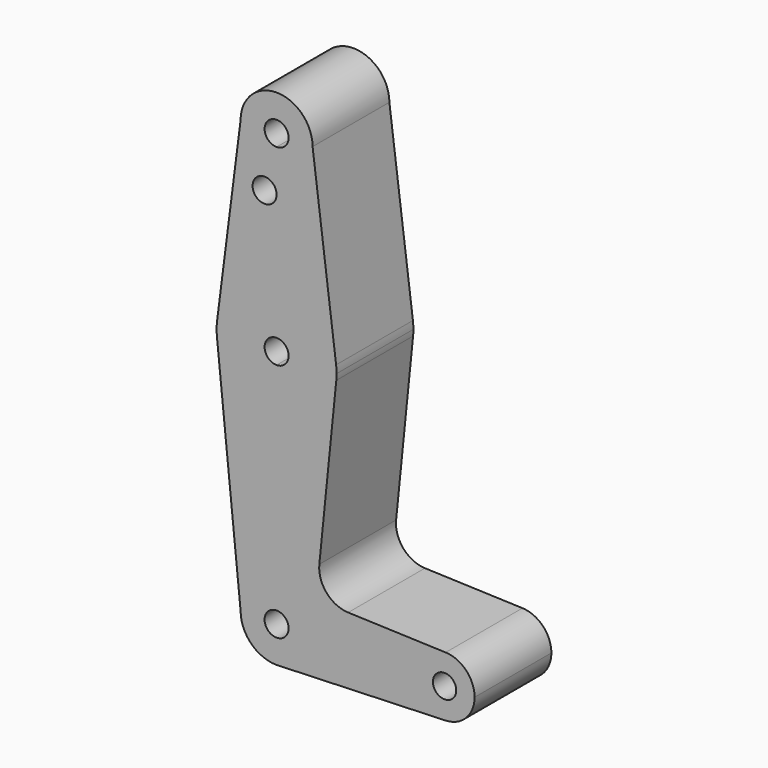
from build123d import *

# Parameters (mm, degrees)
F0_R     = 3.175
F1_DEPTH = 25.4


with BuildPart() as f1:
    # F0 (on Front) → F1 (new body)
    with BuildSketch(Plane.XZ):
        with BuildLine():
            ThreePointArc((0, 104.775), (6.7351920908, 107.5648079092), (9.525, 114.3))
            ThreePointArc((9.525, 114.3), (0, 123.825), (-9.525, 114.3))
            ThreePointArc((-9.525, 114.3), (-6.7351920908, 107.5648079092), (0, 104.775))
        make_face()
        with BuildLine():
            ThreePointArc((3.175, 114.3), (2.2450640303, 112.0549359697), (0, 111.125))
            ThreePointArc((0, 111.125), (-2.2450640303, 116.5450640303), (3.175, 114.3))
        make_face(mode=Mode.SUBTRACT)
        with BuildLine():
            Line((15.7474569047, 65.5082893304), (9.525, 114.3))
            ThreePointArc((9.525, 114.3), (6.7351920908, 107.5648079092), (0, 104.775))
            Line((0, 104.775), (0, 100.0252))
            Line((0, 100.0252), (0, 79.375))
            ThreePointArc((0, 79.375), (10.4912828548, 75.4142187767), (15.7474569047, 65.5082893304))
        make_face()
        with BuildLine():
            ThreePointArc((0, 104.775), (-6.7351920908, 107.5648079092), (-9.525, 114.3))
            Line((-9.525, 114.3), (-15.7474569047, 65.5082893304))
            ThreePointArc((-15.7474569047, 65.5082893304), (-10.4912828548, 75.4142187767), (0, 79.375))
            Line((0, 79.375), (0, 100.0252))
            Line((0, 100.0252), (0, 104.775))
        make_face()
        with Locations((-3.175, 100.0252)):
            Circle(F0_R, mode=Mode.SUBTRACT)
        with BuildLine():
            ThreePointArc((15.875, 63.5), (15.8430821396, 64.5061676396), (15.7474569047, 65.5082893304))
            ThreePointArc((15.7474569047, 65.5082893304), (10.4912828548, 75.4142187767), (0, 79.375))
            Line((0, 79.375), (0, 66.675))
            ThreePointArc((0, 66.675), (2.2450640303, 65.7450640303), (3.175, 63.5))
            ThreePointArc((3.175, 63.5), (2.2450640303, 61.2549359697), (0, 60.325))
            Line((0, 60.325), (0, 47.625))
            ThreePointArc((0, 47.625), (10.644756084, 51.722700101), (15.7942028036, 61.9003804205))
            ThreePointArc((15.7942028036, 61.9003804205), (15.8547878338, 62.6991705884), (15.875, 63.5))
        make_face()
        with BuildLine():
            ThreePointArc((0, 79.375), (-10.4912828548, 75.4142187767), (-15.7474569047, 65.5082893304))
            ThreePointArc((-15.7474569047, 65.5082893304), (-15.873667691, 63.7056672947), (-15.7942028036, 61.9003804205))
            ThreePointArc((-15.7942028036, 61.9003804205), (-10.644756084, 51.722700101), (0, 47.625))
            Line((0, 47.625), (0, 60.325))
            ThreePointArc((0, 60.325), (-3.175, 63.5), (0, 66.675))
            Line((0, 66.675), (0, 79.375))
        make_face()
        with BuildLine():
            ThreePointArc((0, 47.625), (-10.644756084, 51.722700101), (-15.7942028036, 61.9003804205))
            Line((-15.7942028036, 61.9003804205), (-9.525, 0))
            ThreePointArc((-9.525, 0), (-6.7351920908, 6.7351920908), (0, 9.525))
            Line((0, 9.525), (0, 47.625))
        make_face()
        with BuildLine():
            Line((11.3072231466, 17.5971800924), (15.7942028036, 61.9003804205))
            ThreePointArc((15.7942028036, 61.9003804205), (10.644756084, 51.722700101), (0, 47.625))
            Line((0, 47.625), (0, 9.525))
            ThreePointArc((0, 9.525), (6.7351920908, 6.7351920908), (9.525, 0))
            Line((9.525, 0), (36.5125, 0))
            ThreePointArc((36.5125, 0), (38.9380895153, 5.7116327839), (44.7324052746, 7.9324746146))
            Line((44.7324052746, 7.9324746146), (18.9341027877, 8.850924033))
            ThreePointArc((18.9341027877, 8.850924033), (13.2249738114, 11.5709798305), (11.3072231466, 17.5971800924))
        make_face()
        with BuildLine():
            ThreePointArc((0, 9.525), (-6.7351920908, 6.7351920908), (-9.525, 0))
            ThreePointArc((-9.525, 0), (-6.7351920908, -6.7351920908), (0, -9.525))
            Line((0, -9.525), (0.6773435479, -9.500885786))
            ThreePointArc((0.6773435479, -9.500885786), (6.9705567315, -6.4912990883), (9.525, 0))
            Line((9.525, 0), (3.175, 0))
            ThreePointArc((3.175, 0), (-2.2450640303, -2.2450640303), (0, 3.175))
            Line((0, 3.175), (0, 9.525))
        make_face()
        with BuildLine():
            Line((0.6773435479, -9.500885786), (0, -9.525))
            ThreePointArc((0, -9.525), (0.3388863295, -9.5189695375), (0.6773435479, -9.500885786))
        make_face()
        with BuildLine():
            Line((36.5125, 0), (9.525, 0))
            ThreePointArc((9.525, 0), (6.9705567315, -6.4912990883), (0.6773435479, -9.500885786))
            Line((0.6773435479, -9.500885786), (44.7324052746, -7.9324746146))
            ThreePointArc((44.7324052746, -7.9324746146), (38.9380895153, -5.7116327839), (36.5125, 0))
        make_face()
        with BuildLine():
            ThreePointArc((52.3875, 0), (50.1616327839, 5.5119104847), (44.7324052746, 7.9324746146))
            ThreePointArc((44.7324052746, 7.9324746146), (38.9380895153, 5.7116327839), (36.5125, 0))
            ThreePointArc((36.5125, 0), (38.9380895153, -5.7116327839), (44.7324052746, -7.9324746146))
            ThreePointArc((44.7324052746, -7.9324746146), (50.1616327839, -5.5119104847), (52.3875, 0))
        make_face()
        with BuildLine():
            ThreePointArc((47.539728294, 0), (44.45, -3.089728294), (41.360271706, 0))
            ThreePointArc((41.360271706, 0), (44.45, 3.089728294), (47.539728294, 0))
        make_face(mode=Mode.SUBTRACT)
        with BuildLine():
            ThreePointArc((9.525, 0), (6.7351920908, 6.7351920908), (0, 9.525))
            Line((0, 9.525), (0, 3.175))
            ThreePointArc((0, 3.175), (2.2450640303, 2.2450640303), (3.175, 0))
            Line((3.175, 0), (9.525, 0))
        make_face()
    extrude(amount=F1_DEPTH)


solid = f1.part
